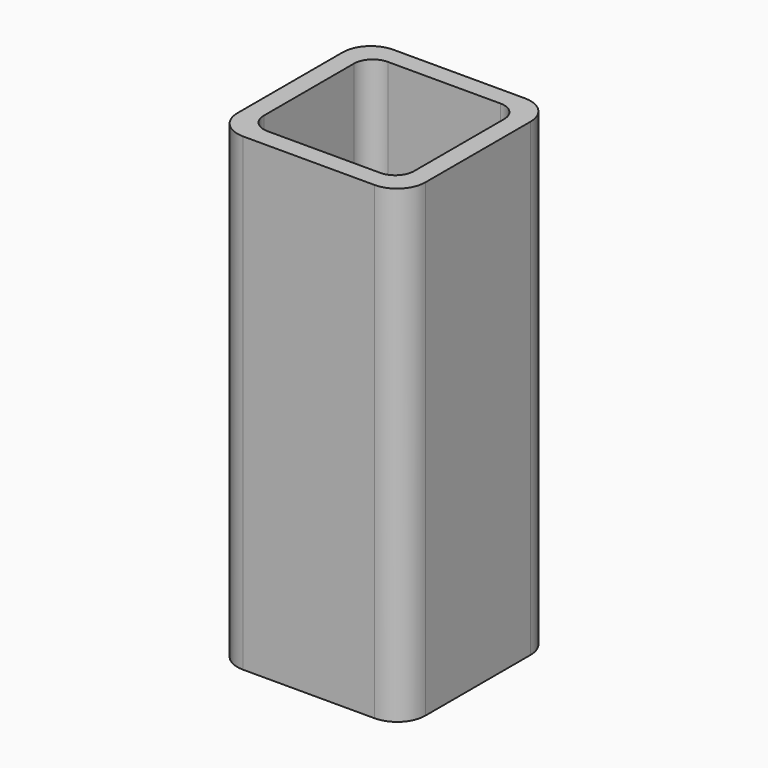
from build123d import *

# Parameters (mm, degrees)
EXTRUDE_DEPTH = 50


with BuildPart() as part:
    # Sketch → Extrude (new body)
    with BuildSketch(Plane.XY):
        with BuildLine():
            Line((-7, 10), (7, 10))
            ThreePointArc((10, 7), (9.12132, 9.12132), (7, 10))
            Line((10, 7), (10, -7))
            ThreePointArc((7, -10), (9.12132, -9.12132), (10, -7))
            Line((7, -10), (-7, -10))
            ThreePointArc((-10, -7), (-9.12132, -9.12132), (-7, -10))
            Line((-10, -7), (-10, 7))
            ThreePointArc((-7, 10), (-9.12132, 9.12132), (-10, 7))
        make_face()
        with BuildLine():
            Line((-6, 8), (6, 8))
            ThreePointArc((8, 6), (7.414214, 7.414214), (6, 8))
            Line((8, 6), (8, -6))
            ThreePointArc((6, -8), (7.414214, -7.414214), (8, -6))
            Line((6, -8), (-6, -8))
            ThreePointArc((-8, -6), (-7.414214, -7.414214), (-6, -8))
            Line((-8, -6), (-8, 6))
            ThreePointArc((-6, 8), (-7.414214, 7.414214), (-8, 6))
        make_face(mode=Mode.SUBTRACT)
    extrude(amount=EXTRUDE_DEPTH)


solid = part.part
